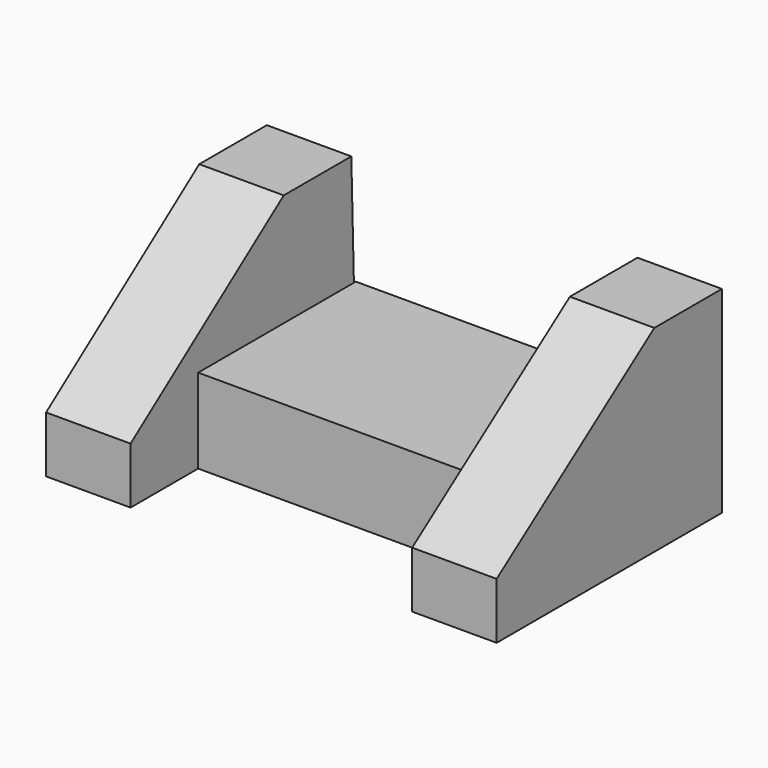
from build123d import *

# Parameters (mm, degrees)
F1_DEPTH = 19.05
F2_W     = 44.45
F2_H     = 19.05
F3_DEPTH = 63.5
F5_DEPTH = 19.05


with BuildPart() as f1:
    # F0 (on Right) → F1 (new body)
    with BuildSketch(Plane.YZ):
        Polygon((14.978143, 21.367056), (-4.071857, 21.367056), (-48.521857, -10.382944), (-48.521857, -23.082944), (14.978143, -23.082944), align=None)
    extrude(amount=F1_DEPTH)

    # F2 (on face) → F3 (join)
    with BuildSketch(Plane(origin=(0, 0, 0), x_dir=(0, -1, 0), z_dir=(-1, 0, 0))):
        with Locations((7.246857, -13.557944)):
            Rectangle(F2_W, F2_H)
    extrude(amount=F3_DEPTH)

    # F4 (on face) → F5 (join)
    with BuildSketch(Plane(origin=(-63.5, 0, 0), x_dir=(0, -1, 0), z_dir=(-1, 0, 0))):
        Polygon((-13.703029, 21.348763), (-14.978143, -23.082944), (48.521857, -23.082944), (48.521857, -10.382944), (5.346971, 21.348763), align=None)
    extrude(amount=F5_DEPTH)


solid = f1.part
